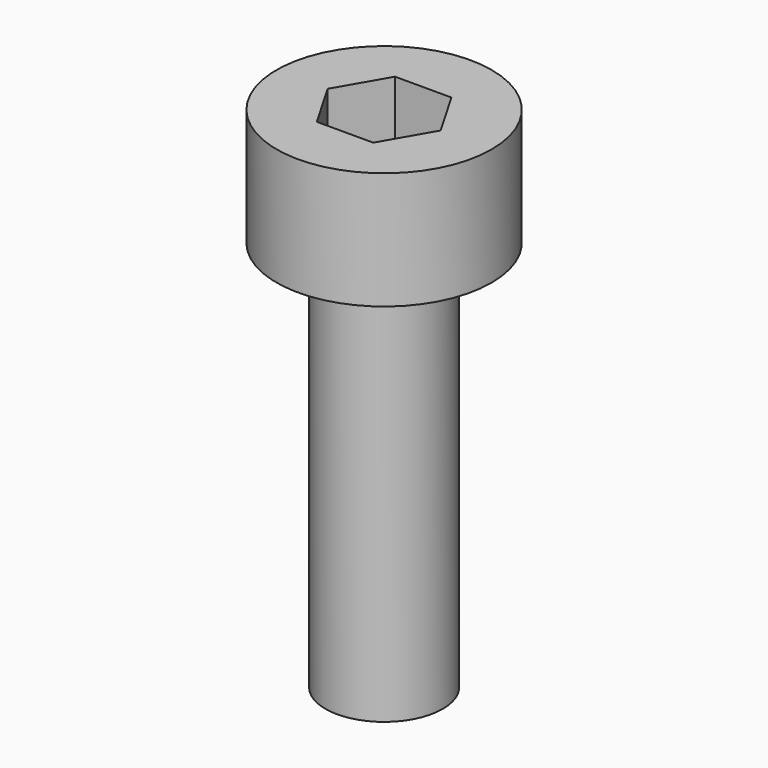
from build123d import *

# Parameters (mm, degrees)
SKETCH_R     = 2.75
PAD_DEPTH    = 3
SKETCH001_R  = 1.5
PAD001_DEPTH = 10
POCKET_DEPTH = 4


with BuildPart() as part:
    # Sketch → Pad (new body)
    with BuildSketch(Plane.XY):
        Circle(SKETCH_R)
    extrude(amount=PAD_DEPTH)

    # Sketch001 (on Face2 of Pad) → Pad001 (join)
    with BuildSketch(Plane(origin=(0, 0, 0), x_dir=(1, 0, 0), z_dir=(0, 0, -1))):
        Circle(SKETCH001_R)
    extrude(amount=PAD001_DEPTH)

    # Sketch002 (on DatumPlane) → Pocket (cut)
    with BuildSketch(Plane.XY.offset(3)):
        Polygon((0.721688, -1.25), (1.443376, 0), (0.721688, 1.25), (-0.721688, 1.25), (-1.443376, 0), (-0.721688, -1.25), align=None)
    extrude(amount=-POCKET_DEPTH, mode=Mode.SUBTRACT)


solid = part.part
